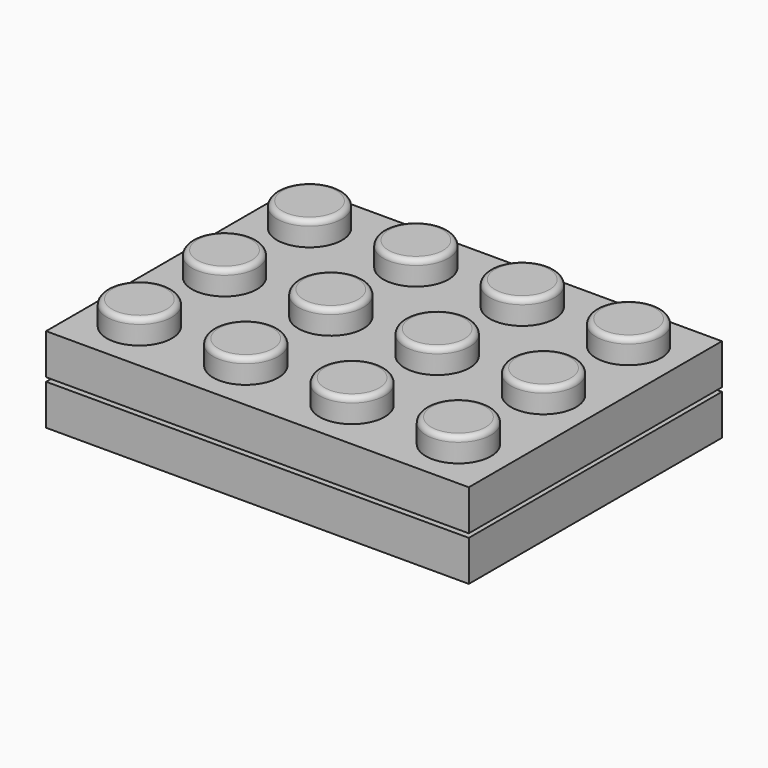
from build123d import *

# Parameters (mm, degrees)
SKETCH_W                      = 31.8
SKETCH_H                      = 23.8
PAD_DEPTH                     = 3.05
SKETCH001_W                   = 29
SKETCH001_H                   = 21
POCKET_DEPTH                  = 2.2
SKETCH002_R                   = 3.25
SKETCH002_R_2                 = 2.45
PAD001_DEPTH                  = 2.2
SKETCH002_LINEARPATTERN_2_R   = 3.25
SKETCH002_LINEARPATTERN_2_R_2 = 2.45
PAD001_LINEARPATTERN_2_DEPTH  = 2.2
SKETCH002_LINEARPATTERN_3_R   = 3.25
SKETCH002_LINEARPATTERN_3_R_2 = 2.45
PAD001_LINEARPATTERN_3_DEPTH  = 2.2
LINEARPATTERN001_COUNT        = 2
LINEARPATTERN001_PITCH        = 8
SKETCH005_W                   = 31.8
SKETCH005_H                   = 23.8
PAD004_DEPTH                  = 3.05
LINEARPATTERN005_COUNT        = 3
LINEARPATTERN005_PITCH        = 8


with BuildPart() as base_plate:
    # Sketch → Pad (new body)
    with BuildSketch(Plane.XY):
        Rectangle(SKETCH_W, SKETCH_H)
    extrude(amount=PAD_DEPTH)

    # Sketch001 (on Face5 of Pad) → Pocket (cut)
    with BuildSketch(Plane(origin=(0, 0, 0), x_dir=(1, 0, 0), z_dir=(0, 0, -1))):
        Rectangle(SKETCH001_W, SKETCH001_H)
    extrude(amount=-POCKET_DEPTH, mode=Mode.SUBTRACT)

    # Sketch002 (on Face11 of Pocket) → Pad001 (join)
    with BuildSketch(Plane(origin=(0, 0, 2.2), x_dir=(1, 0, 0), z_dir=(0, 0, -1))):
        with Locations((8, 4)):
            Circle(SKETCH002_R)
        with Locations((8, 4)):
            Circle(SKETCH002_R_2, mode=Mode.SUBTRACT)
    pad001 = extrude(amount=PAD001_DEPTH)

    # Sketch002 LinearPattern 2 → Pad001 LinearPattern 2 (add)
    with BuildSketch(Plane(origin=(-8, 0, 2.2), x_dir=(1, 0, 0), z_dir=(0, 0, -1))):
        with Locations((8, 4)):
            Circle(SKETCH002_LINEARPATTERN_2_R)
        with Locations((8, 4)):
            Circle(SKETCH002_LINEARPATTERN_2_R_2, mode=Mode.SUBTRACT)
    pad001_linearpattern_2 = extrude(amount=PAD001_LINEARPATTERN_2_DEPTH)

    # Sketch002 LinearPattern 3 → Pad001 LinearPattern 3 (add)
    with BuildSketch(Plane(origin=(-16, 0, 2.2), x_dir=(1, 0, 0), z_dir=(0, 0, -1))):
        with Locations((8, 4)):
            Circle(SKETCH002_LINEARPATTERN_3_R)
        with Locations((8, 4)):
            Circle(SKETCH002_LINEARPATTERN_3_R_2, mode=Mode.SUBTRACT)
    pad001_linearpattern_3 = extrude(amount=PAD001_LINEARPATTERN_3_DEPTH)

    # LinearPattern001: Pad001, Pad001 LinearPattern 2, Pad001 LinearPattern 3 ×2
    with Locations(*[(0, i * LINEARPATTERN001_PITCH, 0) for i in range(1, LINEARPATTERN001_COUNT)]):
        add(pad001)
        add(pad001_linearpattern_2)
        add(pad001_linearpattern_3)


with BuildPart() as top_plate:
    # Sketch005 (on DatumPlane) → Pad004 (new body)
    with BuildSketch(Plane.XY.offset(0.15)):
        Rectangle(SKETCH005_W, SKETCH005_H)
    extrude(amount=PAD004_DEPTH)

    # Sketch006 (on DatumPlane) → Revolution (revolve)
    with BuildSketch(Plane(origin=(12, -8, 0), x_dir=(1, 0, 0), z_dir=(0, -1, 0))):
        with BuildLine():
            Line((0, 3.2), (2.45, 3.2))
            Line((2.45, 3.2), (2.45, 4.6))
            ThreePointArc((2.45, 4.6), (2.332843, 4.882843), (2.05, 5))
            Line((2.05, 5), (0, 5))
            Line((0, 5), (0, 3.2))
        make_face()
    revolution = revolve(axis=Axis((12, -8, 0), (0, 0, 1)))

    # Sketch006 LinearPattern004 2 → Revolution LinearPattern004 2 (revolve)
    with BuildSketch(Plane(origin=(4, -8, 0), x_dir=(1, 0, 0), z_dir=(0, -1, 0))):
        with BuildLine():
            Line((0, 3.2), (2.45, 3.2))
            Line((2.45, 3.2), (2.45, 4.6))
            ThreePointArc((2.45, 4.6), (2.332843, 4.882843), (2.05, 5))
            Line((2.05, 5), (0, 5))
            Line((0, 5), (0, 3.2))
        make_face()
    revolution_linearpattern004_2 = revolve(axis=Axis((4, -8, 0), (0, 0, 1)))

    # Sketch006 LinearPattern004 3 → Revolution LinearPattern004 3 (revolve)
    with BuildSketch(Plane(origin=(-4, -8, 0), x_dir=(1, 0, 0), z_dir=(0, -1, 0))):
        with BuildLine():
            Line((0, 3.2), (2.45, 3.2))
            Line((2.45, 3.2), (2.45, 4.6))
            ThreePointArc((2.45, 4.6), (2.332843, 4.882843), (2.05, 5))
            Line((2.05, 5), (0, 5))
            Line((0, 5), (0, 3.2))
        make_face()
    revolution_linearpattern004_3 = revolve(axis=Axis((-4, -8, 0), (0, 0, 1)))

    # Sketch006 LinearPattern004 4 → Revolution LinearPattern004 4 (revolve)
    with BuildSketch(Plane(origin=(-12, -8, 0), x_dir=(1, 0, 0), z_dir=(0, -1, 0))):
        with BuildLine():
            Line((0, 3.2), (2.45, 3.2))
            Line((2.45, 3.2), (2.45, 4.6))
            ThreePointArc((2.45, 4.6), (2.332843, 4.882843), (2.05, 5))
            Line((2.05, 5), (0, 5))
            Line((0, 5), (0, 3.2))
        make_face()
    revolution_linearpattern004_4 = revolve(axis=Axis((-12, -8, 0), (0, 0, 1)))

    # LinearPattern005: Revolution, Revolution LinearPattern004 2, Revolution LinearPattern004 3, Revolution LinearPattern004 4 ×3
    with Locations(*[(0, i * LINEARPATTERN005_PITCH, 0) for i in range(1, LINEARPATTERN005_COUNT)]):
        add(revolution)
        add(revolution_linearpattern004_2)
        add(revolution_linearpattern004_3)
        add(revolution_linearpattern004_4)


with BuildPart() as top_plate_1:
    # Body002 placement: moved
    add(top_plate.part.moved(Location((0, 0, 3.2))))


solid = Compound([base_plate.part, top_plate_1.part])
